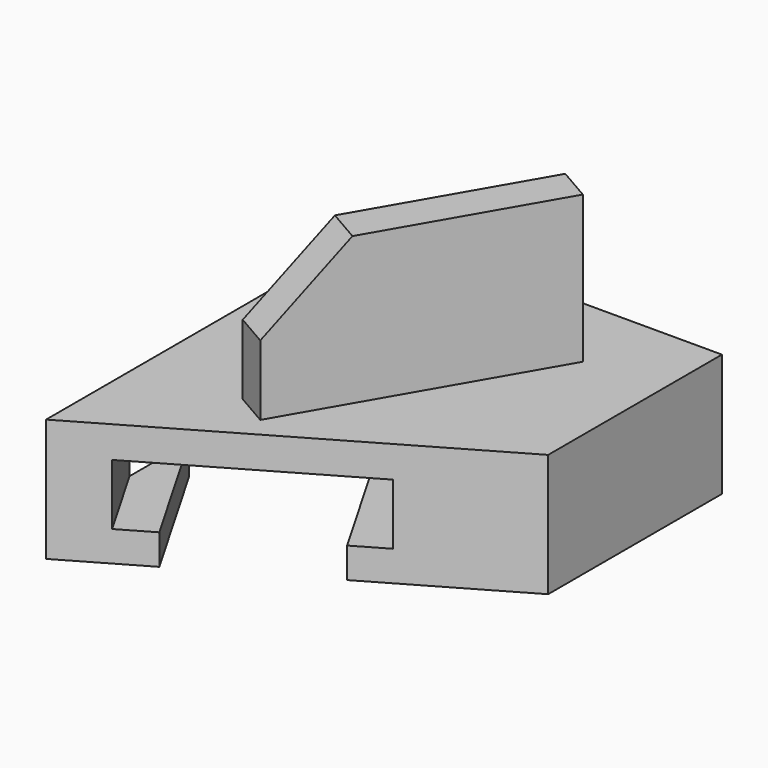
from build123d import *

# Parameters (mm, degrees)
F1_DEPTH = 31.75
F3_DEPTH = 120
F5_DEPTH = 38.1
F6_SIZE  = 20


with BuildPart() as f1:
    # F0 (on Top) → F1 (new body)
    with BuildSketch(Plane.XY):
        Polygon((88.9, 107.55), (0, 107.55), (0, 0), (88.9, 51.326438931), align=None)
    extrude(amount=F1_DEPTH)

    # F2 (on face) → F3 (cut)
    with BuildSketch(Plane(origin=(0, 0, 0), x_dir=(0.8660254038, 0.5, 0), z_dir=(0.5, -0.8660254038, 0))):
        Polygon((70.9, 23.62), (13.5, 23.62), (13.5, 7.87), (23.15, 7.87), (23.15, 0), (61.55, 0), (61.55, 7.87), (70.9, 7.87), align=None)
    extrude(amount=-F3_DEPTH, mode=Mode.SUBTRACT)

    # F4 (on face) → F5 (join)
    with BuildSketch(Plane.XY.offset(31.75)):
        Polygon((33.9, 26.9282217351), (68.9, 87.55), (60.4562523131, 92.425), (25.4562523131, 31.8032217351), align=None)
    extrude(amount=F5_DEPTH)

    # F6
    f6_edges = [f1.edges().sort_by_distance(p)[0] for p in [
        (29.678126, 29.365722, 69.85),
    ]]
    chamfer(f6_edges, length=F6_SIZE)


solid = f1.part
